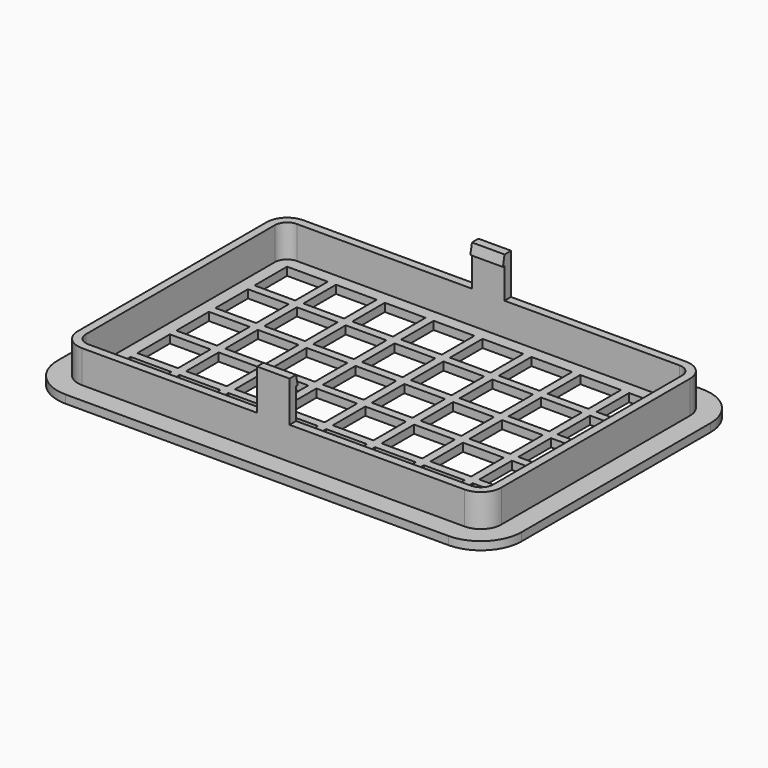
from build123d import *

# Parameters (mm, degrees)
F0_W     = 10
F0_H     = 10
F1_DEPTH = 2
F2_DEPTH = 10
F3_W     = 8
F3_H     = 2
F4_DEPTH = 10
F6_DEPTH = 8


with BuildPart() as f1:
    # F0 (on Top) → F1 (new body)
    with BuildSketch(Plane.XY):
        with BuildLine():
            ThreePointArc((0, 10), (2.9289321881, 2.9289321881), (10, 0))
            Line((10, 0), (104, 0))
            ThreePointArc((104, 0), (111.0710678119, 2.9289321881), (114, 10))
            Line((114, 10), (114, 68))
            ThreePointArc((114, 68), (111.0710678119, 75.0710678119), (104, 78))
            Line((104, 78), (10, 78))
            ThreePointArc((10, 78), (2.9289321881, 75.0710678119), (0, 68))
            Line((0, 68), (0, 10))
        make_face()
        with BuildLine():
            ThreePointArc((10, 5), (6.4644660941, 6.4644660941), (5, 10))
            Line((5, 10), (5, 68))
            ThreePointArc((5, 68), (6.4644660941, 71.5355339059), (10, 73))
            Line((10, 73), (104, 73))
            ThreePointArc((104, 73), (107.5355339059, 71.5355339059), (109, 68))
            Line((109, 68), (109, 10))
            ThreePointArc((109, 10), (107.5355339059, 6.4644660941), (104, 5))
            Line((104, 5), (10, 5))
        make_face(mode=Mode.SUBTRACT)
        with BuildLine():
            Line((5, 68), (5, 10))
            ThreePointArc((5, 10), (6.4644660941, 6.4644660941), (10, 5))
            Line((10, 5), (104, 5))
            ThreePointArc((104, 5), (107.5355339059, 6.4644660941), (109, 10))
            Line((109, 10), (109, 68))
            ThreePointArc((109, 68), (107.5355339059, 71.5355339059), (104, 73))
            Line((104, 73), (10, 73))
            ThreePointArc((10, 73), (6.4644660941, 71.5355339059), (5, 68))
        make_face()
        with BuildLine():
            ThreePointArc((10, 7), (7.8786796564, 7.8786796564), (7, 10))
            Line((7, 10), (7, 68))
            ThreePointArc((7, 68), (7.8786796564, 70.1213203436), (10, 71))
            Line((10, 71), (104, 71))
            ThreePointArc((104, 71), (106.1213203436, 70.1213203436), (107, 68))
            Line((107, 68), (107, 10))
            ThreePointArc((107, 10), (106.1213203436, 7.8786796564), (104, 7))
            Line((104, 7), (10, 7))
        make_face(mode=Mode.SUBTRACT)
        with BuildLine():
            Line((7, 68), (7, 10))
            ThreePointArc((7, 10), (7.8786796564, 7.8786796564), (10, 7))
            Line((10, 7), (104, 7))
            ThreePointArc((104, 7), (106.1213203436, 7.8786796564), (107, 10))
            Line((107, 10), (107, 68))
            ThreePointArc((107, 68), (106.1213203436, 70.1213203436), (104, 71))
            Line((104, 71), (10, 71))
            ThreePointArc((10, 71), (7.8786796564, 70.1213203436), (7, 68))
        make_face()
        with Locations((15, 15)):
            Rectangle(F0_W, F0_H, mode=Mode.SUBTRACT)
        with Locations((27, 15)):
            Rectangle(F0_W, F0_H, mode=Mode.SUBTRACT)
        with Locations((39, 15)):
            Rectangle(F0_W, F0_H, mode=Mode.SUBTRACT)
        with Locations((51, 15)):
            Rectangle(F0_W, F0_H, mode=Mode.SUBTRACT)
        with Locations((15, 27)):
            Rectangle(F0_W, F0_H, mode=Mode.SUBTRACT)
        with Locations((27, 27)):
            Rectangle(F0_W, F0_H, mode=Mode.SUBTRACT)
        with Locations((39, 27)):
            Rectangle(F0_W, F0_H, mode=Mode.SUBTRACT)
        with Locations((51, 27)):
            Rectangle(F0_W, F0_H, mode=Mode.SUBTRACT)
        with Locations((63, 15)):
            Rectangle(F0_W, F0_H, mode=Mode.SUBTRACT)
        with Locations((75, 15)):
            Rectangle(F0_W, F0_H, mode=Mode.SUBTRACT)
        with Locations((87, 15)):
            Rectangle(F0_W, F0_H, mode=Mode.SUBTRACT)
        with Locations((99, 15)):
            Rectangle(F0_W, F0_H, mode=Mode.SUBTRACT)
        with Locations((63, 27)):
            Rectangle(F0_W, F0_H, mode=Mode.SUBTRACT)
        with Locations((75, 27)):
            Rectangle(F0_W, F0_H, mode=Mode.SUBTRACT)
        with Locations((87, 27)):
            Rectangle(F0_W, F0_H, mode=Mode.SUBTRACT)
        with Locations((99, 27)):
            Rectangle(F0_W, F0_H, mode=Mode.SUBTRACT)
        with Locations((15, 39)):
            Rectangle(F0_W, F0_H, mode=Mode.SUBTRACT)
        with Locations((27, 39)):
            Rectangle(F0_W, F0_H, mode=Mode.SUBTRACT)
        with Locations((15, 51)):
            Rectangle(F0_W, F0_H, mode=Mode.SUBTRACT)
        with Locations((27, 51)):
            Rectangle(F0_W, F0_H, mode=Mode.SUBTRACT)
        with Locations((39, 39)):
            Rectangle(F0_W, F0_H, mode=Mode.SUBTRACT)
        with Locations((51, 39)):
            Rectangle(F0_W, F0_H, mode=Mode.SUBTRACT)
        with Locations((39, 51)):
            Rectangle(F0_W, F0_H, mode=Mode.SUBTRACT)
        with Locations((51, 51)):
            Rectangle(F0_W, F0_H, mode=Mode.SUBTRACT)
        with Locations((15, 63)):
            Rectangle(F0_W, F0_H, mode=Mode.SUBTRACT)
        with Locations((27, 63)):
            Rectangle(F0_W, F0_H, mode=Mode.SUBTRACT)
        with Locations((39, 63)):
            Rectangle(F0_W, F0_H, mode=Mode.SUBTRACT)
        with Locations((51, 63)):
            Rectangle(F0_W, F0_H, mode=Mode.SUBTRACT)
        with Locations((63, 39)):
            Rectangle(F0_W, F0_H, mode=Mode.SUBTRACT)
        with Locations((75, 39)):
            Rectangle(F0_W, F0_H, mode=Mode.SUBTRACT)
        with Locations((63, 51)):
            Rectangle(F0_W, F0_H, mode=Mode.SUBTRACT)
        with Locations((75, 51)):
            Rectangle(F0_W, F0_H, mode=Mode.SUBTRACT)
        with Locations((87, 39)):
            Rectangle(F0_W, F0_H, mode=Mode.SUBTRACT)
        with Locations((99, 39)):
            Rectangle(F0_W, F0_H, mode=Mode.SUBTRACT)
        with Locations((87, 51)):
            Rectangle(F0_W, F0_H, mode=Mode.SUBTRACT)
        with Locations((99, 51)):
            Rectangle(F0_W, F0_H, mode=Mode.SUBTRACT)
        with Locations((63, 63)):
            Rectangle(F0_W, F0_H, mode=Mode.SUBTRACT)
        with Locations((75, 63)):
            Rectangle(F0_W, F0_H, mode=Mode.SUBTRACT)
        with Locations((87, 63)):
            Rectangle(F0_W, F0_H, mode=Mode.SUBTRACT)
        with Locations((99, 63)):
            Rectangle(F0_W, F0_H, mode=Mode.SUBTRACT)
    extrude(amount=F1_DEPTH)

    # F0 (on Top) → F2 (join)
    with BuildSketch(Plane.XY):
        with BuildLine():
            Line((5, 68), (5, 10))
            ThreePointArc((5, 10), (6.4644660941, 6.4644660941), (10, 5))
            Line((10, 5), (104, 5))
            ThreePointArc((104, 5), (107.5355339059, 6.4644660941), (109, 10))
            Line((109, 10), (109, 68))
            ThreePointArc((109, 68), (107.5355339059, 71.5355339059), (104, 73))
            Line((104, 73), (10, 73))
            ThreePointArc((10, 73), (6.4644660941, 71.5355339059), (5, 68))
        make_face()
        with BuildLine():
            ThreePointArc((10, 7), (7.8786796564, 7.8786796564), (7, 10))
            Line((7, 10), (7, 68))
            ThreePointArc((7, 68), (7.8786796564, 70.1213203436), (10, 71))
            Line((10, 71), (104, 71))
            ThreePointArc((104, 71), (106.1213203436, 70.1213203436), (107, 68))
            Line((107, 68), (107, 10))
            ThreePointArc((107, 10), (106.1213203436, 7.8786796564), (104, 7))
            Line((104, 7), (10, 7))
        make_face(mode=Mode.SUBTRACT)
    extrude(amount=F2_DEPTH)

    # F3 (on face) → F4 (join)
    with BuildSketch(Plane.XY.offset(10)):
        with Locations((57, 72)):
            Rectangle(F3_W, F3_H)
        with Locations((57, 6)):
            Rectangle(F3_W, F3_H)
    extrude(amount=F4_DEPTH)

    # F5 (on face) → F6 (join, through all)
    with BuildSketch(Plane(origin=(53, 0, 0), x_dir=(0, -1, 0), z_dir=(-1, 0, 0))):
        Polygon((-70.5, 17.5), (-71, 20), (-71, 17.5), align=None)
        Polygon((-7, 20), (-7.5, 17.5), (-7, 17.5), align=None)
    extrude(amount=-F6_DEPTH)


solid = f1.part
